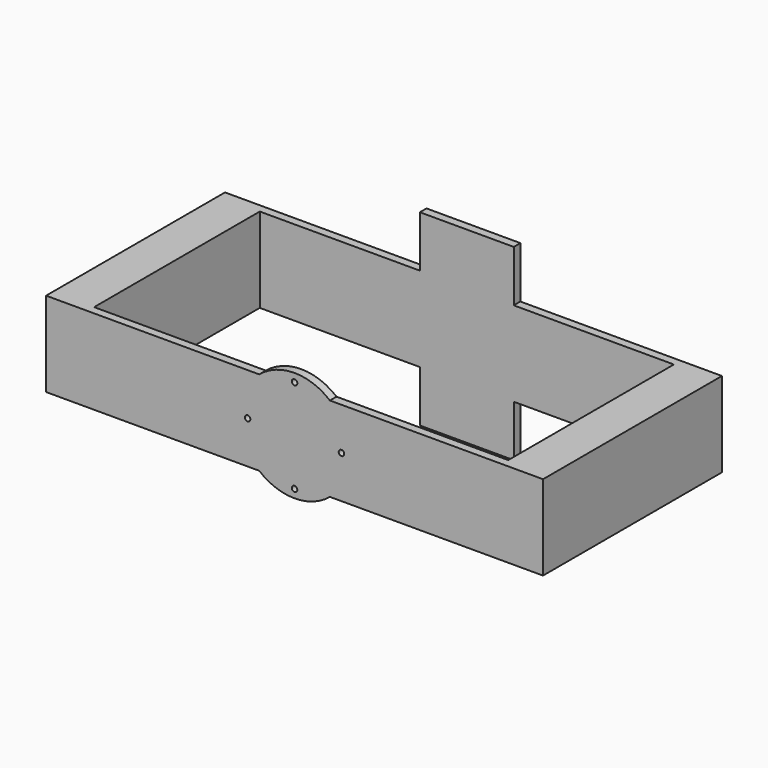
from build123d import *

# Parameters (mm, degrees)
F0_R     = 1
F1_DEPTH = 3
F2_DEPTH = 81
F4_W     = 73
F4_H     = 15.3680173474
F4_W_2   = 34
F4_H_2   = 18.6319826526
F5_DEPTH = 3
F6_DEPTH = 3


with BuildPart() as f1:
    # F0 (on Front) → F1 (new body)
    with BuildSketch(Plane.XZ):
        with BuildLine():
            Line((-75, -15.3680173474), (-12.7993766571, -15.3680173474))
            ThreePointArc((-12.7993766571, -15.3680173474), (-18.1105981837, -8.4856486746), (-20, 0))
            Line((-20, 0), (-69, 0))
            Line((-69, 0), (-75, 0))
            Line((-75, 0), (-75, -15.3680173474))
        make_face()
        with BuildLine():
            ThreePointArc((-20, 0), (-18.1105981837, 8.4856486746), (-12.7993766571, 15.3680173474))
            Line((-12.7993766571, 15.3680173474), (-75, 15.3680173474))
            Line((-75, 15.3680173474), (-75, 0))
            Line((-75, 0), (-69, 0))
            Line((-69, 0), (-20, 0))
        make_face()
        with BuildLine():
            ThreePointArc((12.7993766571, 15.3680173474), (18.1105981837, 8.4856486746), (20, 0))
            Line((20, 0), (69, 0))
            Line((69, 0), (75, 0))
            Line((75, 0), (75, 15.3680173474))
            Line((75, 15.3680173474), (12.7993766571, 15.3680173474))
        make_face()
        with BuildLine():
            Line((69, 0), (20, 0))
            ThreePointArc((20, 0), (18.1105981837, -8.4856486746), (12.7993766571, -15.3680173474))
            Line((12.7993766571, -15.3680173474), (75, -15.3680173474))
            Line((75, -15.3680173474), (75, 0))
            Line((75, 0), (69, 0))
        make_face()
        with BuildLine():
            Line((18, 0), (20, 0))
            ThreePointArc((20, 0), (18.1105981837, 8.4856486746), (12.7993766571, 15.3680173474))
            ThreePointArc((12.7993766571, 15.3680173474), (0, 20), (-12.7993766571, 15.3680173474))
            ThreePointArc((-12.7993766571, 15.3680173474), (-18.1105981837, 8.4856486746), (-20, 0))
            Line((-20, 0), (-18, 0))
            ThreePointArc((-18, 0), (-17, 1), (-16, 0))
            Line((-16, 0), (0, 0))
            Line((0, 0), (16, 0))
            ThreePointArc((16, 0), (17, 1), (18, 0))
        make_face()
        with Locations((0, 17)):
            Circle(F0_R, mode=Mode.SUBTRACT)
        with BuildLine():
            ThreePointArc((12.7993766571, -15.3680173474), (18.1105981837, -8.4856486746), (20, 0))
            Line((20, 0), (18, 0))
            ThreePointArc((18, 0), (17, -1), (16, 0))
            Line((16, 0), (0, 0))
            Line((0, 0), (-16, 0))
            ThreePointArc((-16, 0), (-17, -1), (-18, 0))
            Line((-18, 0), (-20, 0))
            ThreePointArc((-20, 0), (-18.1105981837, -8.4856486746), (-12.7993766571, -15.3680173474))
            ThreePointArc((-12.7993766571, -15.3680173474), (0, -20), (12.7993766571, -15.3680173474))
        make_face()
        with Locations((0, -17)):
            Circle(F0_R, mode=Mode.SUBTRACT)
    extrude(amount=-F1_DEPTH)

    # F0 (on Front) → F2 (join)
    with BuildSketch(Plane.XZ):
        Polygon((90, 15.3680173474), (75, 15.3680173474), (75, 0), (75, -15.3680173474), (90, -15.3680173474), align=None)
        Polygon((77, 0), (77, 13.3680173474), (88, 13.3680173474), (88, -13.3680173474), (77, -13.3680173474), align=None, mode=Mode.SUBTRACT)
        Polygon((-75, 0), (-75, 15.3680173474), (-90, 15.3680173474), (-90, -15.3680173474), (-75, -15.3680173474), align=None)
        Polygon((-88, -13.3680173474), (-88, 13.3680173474), (-77, 13.3680173474), (-77, 0), (-77, -13.3680173474), align=None, mode=Mode.SUBTRACT)
    extrude(amount=-F2_DEPTH)

    # F4 (on offset) → F5 (join)
    with BuildSketch(Plane.XZ.offset(-81)):
        with Locations((53.5, 7.6840086737)):
            Rectangle(F4_W, F4_H)
        with Locations((53.5, -7.6840086737)):
            Rectangle(F4_W, F4_H)
        Polygon((-17, 0), (0, 0), (17, 0), (17, 15.3680173474), (-17, 15.3680173474), align=None)
        with Locations((0, 24.6840086737)):
            Rectangle(F4_W_2, F4_H_2)
        Polygon((17, 0), (0, 0), (-17, 0), (-17, -15.3680173474), (17, -15.3680173474), align=None)
        with Locations((0, -24.6840086737)):
            Rectangle(F4_W_2, F4_H_2)
        with Locations((-53.5, -7.6840086737)):
            Rectangle(F4_W, F4_H)
        with Locations((-53.5, 7.6840086737)):
            Rectangle(F4_W, F4_H)
    extrude(amount=F5_DEPTH)

    # F0 (on Front) → F6 (join)
    with BuildSketch(Plane.XZ):
        Polygon((88, 13.3680173474), (77, 13.3680173474), (77, 0), (77, -13.3680173474), (88, -13.3680173474), align=None)
        Polygon((-77, 13.3680173474), (-88, 13.3680173474), (-88, -13.3680173474), (-77, -13.3680173474), (-77, 0), align=None)
    extrude(amount=-F6_DEPTH)


solid = f1.part
